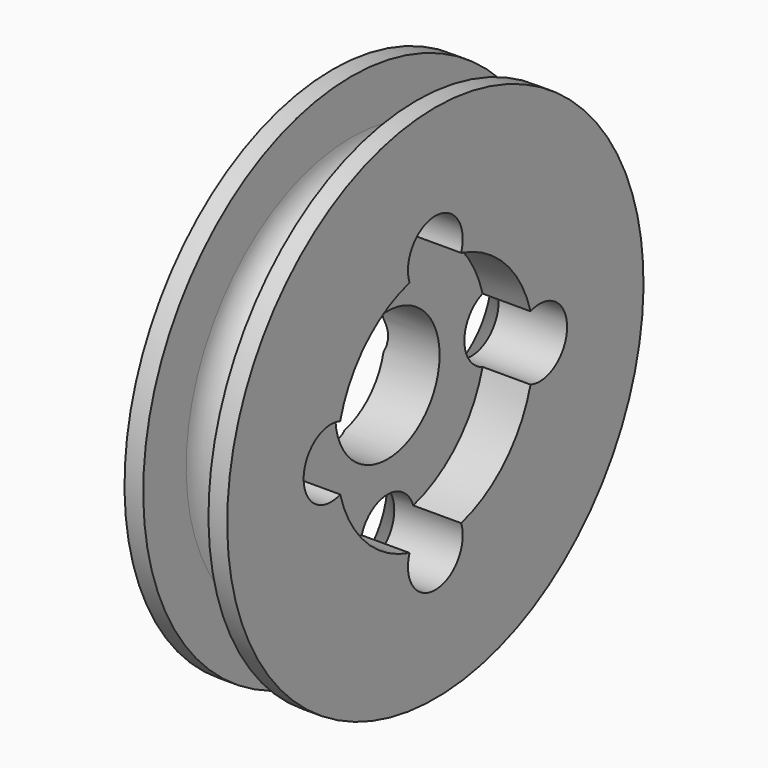
from build123d import *

# Parameters (mm, degrees)
F2_R           = 4.7625
F2_R_2         = 2.5
F3_DEPTH       = 7.501
F5_D           = 5
F5_CSINK_D     = 10
F5_CSINK_ANGLE = 90


with BuildPart() as f1:
    # F0 (on Front) → F1 (revolve)
    with BuildSketch(Plane.XZ):
        with BuildLine():
            Line((0, 19), (0, 0))
            Line((0, 0), (4, 0))
            Line((4, 0), (4, 9))
            Line((4, 9), (7.5, 9))
            Line((7.5, 9), (7.5, 19))
            Line((7.5, 19), (6.13125, 19))
            Line((6.13125, 19), (6.13125, 15.08125))
            ThreePointArc((6.13125, 15.08125), (3.75, 12.7), (1.36875, 15.08125))
            Line((1.36875, 15.08125), (1.36875, 19))
            Line((1.36875, 19), (0, 19))
        make_face()
    revolve(axis=Axis((2, 0, 0), (-1, 0, 0)))

    # F2 (on face) → F3 (cut, through all)
    with BuildSketch(Plane.YZ.offset(7.5)):
        Circle(F2_R)
        with Locations((0, 9.525)):
            Circle(F2_R_2)
        with Locations((9.525, 0)):
            Circle(F2_R_2)
        with Locations((0, -9.525)):
            Circle(F2_R_2)
        with Locations((-9.525, 0)):
            Circle(F2_R_2)
    extrude(amount=-F3_DEPTH, mode=Mode.SUBTRACT)

    # F5 (through all)
    with Locations(Plane(origin=(0, 0, 0), x_dir=(0, -1, 0), z_dir=(-1, 0, 0))):
        with Locations((0, 9.525), (9.525, 0), (0, -9.525), (-9.525, 0)):
            CounterSinkHole(F5_D / 2, F5_CSINK_D / 2, counter_sink_angle=F5_CSINK_ANGLE)


solid = f1.part
